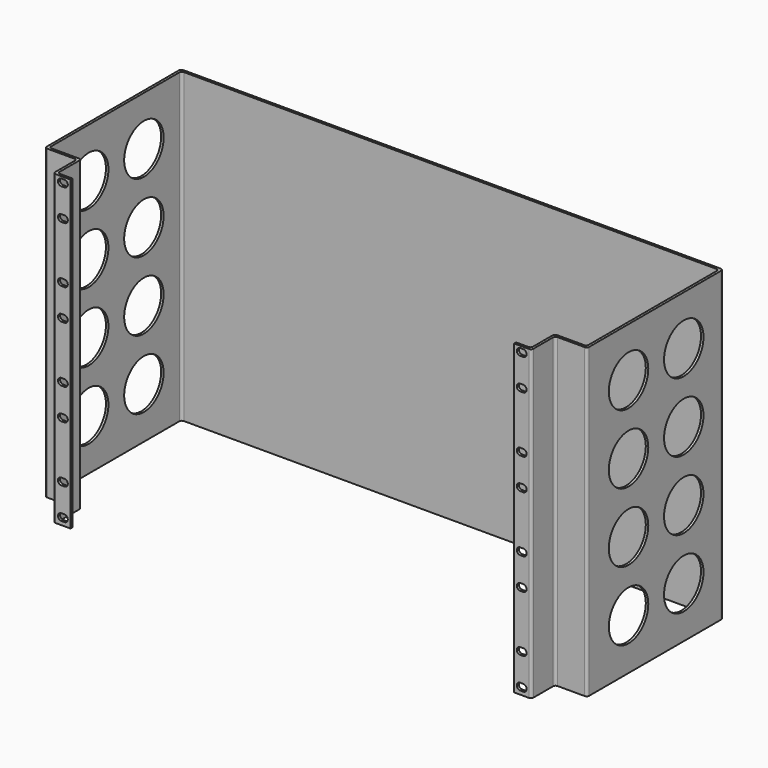
from build123d import *

# Parameters (mm, degrees)
F0_W      = 2.5
F0_H      = 311.5
F1_DEPTH  = 170
F0_W_2    = 272.5
F2_DEPTH  = 2.5
F3_W      = 2.5
F3_H      = 311.5
F4_DEPTH  = 32.5
F5_W      = 2.5
F5_H      = 311.5
F6_DEPTH  = 30
F7_W      = 2.5
F7_H      = 311.5
F8_DEPTH  = 15
F3_R      = 25
F9_DEPTH  = 25
F11_DEPTH = 25
F12_R     = 2.5


with BuildPart() as f1:
    # F0 (on Front) → F1 (new body)
    with BuildSketch(Plane.XZ):
        with Locations((-273.75, 0)):
            Rectangle(F0_W, F0_H)
    extrude(amount=F1_DEPTH)

    # F0 (on Front) → F2 (join)
    with BuildSketch(Plane.XZ):
        with Locations((-136.25, 0)):
            Rectangle(F0_W_2, F0_H)
        with Locations((-273.75, 0)):
            Rectangle(F0_W, F0_H)
    extrude(amount=-F2_DEPTH)

    # F3 (on face) → F4 (join)
    with BuildSketch(Plane.YZ.offset(-272.5)):
        with Locations((-168.75, 0)):
            Rectangle(F3_W, F3_H)
    extrude(amount=F4_DEPTH)

    # F5 (on face) → F6 (join)
    with BuildSketch(Plane.XZ.offset(170)):
        with Locations((-241.25, 0)):
            Rectangle(F5_W, F5_H)
    extrude(amount=F6_DEPTH)

    # F7 (on face) → F8 (join)
    with BuildSketch(Plane.YZ.offset(-240)):
        with Locations((-198.75, 0)):
            Rectangle(F7_W, F7_H)
    extrude(amount=F8_DEPTH)

    # F3 (on face) → F9 (cut)
    with BuildSketch(Plane.YZ.offset(-272.5)):
        with Locations((-117.5, 105.75)):
            Circle(F3_R)
        with Locations((-47.5, 105.75)):
            Circle(F3_R)
        with Locations((-117.5, 35.75)):
            Circle(F3_R)
        with Locations((-47.5, 35.75)):
            Circle(F3_R)
        with Locations((-117.5, -34.25)):
            Circle(F3_R)
        with Locations((-47.5, -34.25)):
            Circle(F3_R)
        with Locations((-47.5, -104.25)):
            Circle(F3_R)
        with Locations((-117.5, -104.25)):
            Circle(F3_R)
    extrude(amount=-F9_DEPTH, mode=Mode.SUBTRACT)

    # F10 (on face) → F11 (cut)
    with BuildSketch(Plane.XZ.offset(200)):
        with BuildLine():
            Line((-231.1658090081, 153.75), (-234.1658090081, 153.75))
            ThreePointArc((-234.1658090081, 153.75), (-237.6658090081, 150.25), (-234.1658090081, 146.75))
            Line((-234.1658090081, 146.75), (-231.1658090081, 146.75))
            ThreePointArc((-231.1658090081, 146.75), (-227.6658090081, 150.25), (-231.1658090081, 153.75))
        make_face()
        with BuildLine():
            Line((-231.1658090081, 121.95), (-234.1658090081, 121.95))
            ThreePointArc((-234.1658090081, 121.95), (-237.6658090081, 118.45), (-234.1658090081, 114.95))
            Line((-234.1658090081, 114.95), (-231.1658090081, 114.95))
            ThreePointArc((-231.1658090081, 114.95), (-227.6658090081, 118.45), (-231.1658090081, 121.95))
        make_face()
        with BuildLine():
            Line((-234.1658090081, 25.95), (-231.1658090081, 25.95))
            ThreePointArc((-231.1658090081, 25.95), (-227.6658090081, 29.45), (-231.1658090081, 32.95))
            Line((-231.1658090081, 32.95), (-234.1658090081, 32.95))
            ThreePointArc((-234.1658090081, 32.95), (-237.6658090081, 29.45), (-234.1658090081, 25.95))
        make_face()
        with BuildLine():
            Line((-234.1658090081, 57.75), (-231.1658090081, 57.75))
            ThreePointArc((-231.1658090081, 57.75), (-227.6658090081, 61.25), (-231.1658090081, 64.75))
            Line((-231.1658090081, 64.75), (-234.1658090081, 64.75))
            ThreePointArc((-234.1658090081, 64.75), (-237.6658090081, 61.25), (-234.1658090081, 57.75))
        make_face()
        with BuildLine():
            Line((-234.1658090081, -63.05), (-231.1658090081, -63.05))
            ThreePointArc((-231.1658090081, -63.05), (-227.6658090081, -59.55), (-231.1658090081, -56.05))
            Line((-231.1658090081, -56.05), (-234.1658090081, -56.05))
            ThreePointArc((-234.1658090081, -56.05), (-237.6658090081, -59.55), (-234.1658090081, -63.05))
        make_face()
        with BuildLine():
            Line((-234.1658090081, -31.25), (-231.1658090081, -31.25))
            ThreePointArc((-231.1658090081, -31.25), (-227.6658090081, -27.75), (-231.1658090081, -24.25))
            Line((-231.1658090081, -24.25), (-234.1658090081, -24.25))
            ThreePointArc((-234.1658090081, -24.25), (-237.6658090081, -27.75), (-234.1658090081, -31.25))
        make_face()
        with BuildLine():
            Line((-234.1658090081, -152.05), (-231.1658090081, -152.05))
            ThreePointArc((-231.1658090081, -152.05), (-227.6658090081, -148.55), (-231.1658090081, -145.05))
            Line((-231.1658090081, -145.05), (-234.1658090081, -145.05))
            ThreePointArc((-234.1658090081, -145.05), (-237.6658090081, -148.55), (-234.1658090081, -152.05))
        make_face()
        with BuildLine():
            Line((-234.1658090081, -120.25), (-231.1658090081, -120.25))
            ThreePointArc((-231.1658090081, -120.25), (-227.6658090081, -116.75), (-231.1658090081, -113.25))
            Line((-231.1658090081, -113.25), (-234.1658090081, -113.25))
            ThreePointArc((-234.1658090081, -113.25), (-237.6658090081, -116.75), (-234.1658090081, -120.25))
        make_face()
        with BuildLine():
            Line((-209.1658090081, 114.95), (-206.1658090081, 114.95))
            ThreePointArc((-206.1658090081, 114.95), (-202.6658090081, 118.45), (-206.1658090081, 121.95))
            Line((-206.1658090081, 121.95), (-209.1658090081, 121.95))
            ThreePointArc((-209.1658090081, 121.95), (-212.6658090081, 118.45), (-209.1658090081, 114.95))
        make_face()
        with BuildLine():
            Line((-209.1658090081, 146.75), (-206.1658090081, 146.75))
            ThreePointArc((-206.1658090081, 146.75), (-202.6658090081, 150.25), (-206.1658090081, 153.75))
            Line((-206.1658090081, 153.75), (-209.1658090081, 153.75))
            ThreePointArc((-209.1658090081, 153.75), (-212.6658090081, 150.25), (-209.1658090081, 146.75))
        make_face()
        with BuildLine():
            Line((-209.1658090081, 25.95), (-206.1658090081, 25.95))
            ThreePointArc((-206.1658090081, 25.95), (-202.6658090081, 29.45), (-206.1658090081, 32.95))
            Line((-206.1658090081, 32.95), (-209.1658090081, 32.95))
            ThreePointArc((-209.1658090081, 32.95), (-212.6658090081, 29.45), (-209.1658090081, 25.95))
        make_face()
        with BuildLine():
            Line((-209.1658090081, 57.75), (-206.1658090081, 57.75))
            ThreePointArc((-206.1658090081, 57.75), (-202.6658090081, 61.25), (-206.1658090081, 64.75))
            Line((-206.1658090081, 64.75), (-209.1658090081, 64.75))
            ThreePointArc((-209.1658090081, 64.75), (-212.6658090081, 61.25), (-209.1658090081, 57.75))
        make_face()
        with BuildLine():
            Line((-209.1658090081, -63.05), (-206.1658090081, -63.05))
            ThreePointArc((-206.1658090081, -63.05), (-202.6658090081, -59.55), (-206.1658090081, -56.05))
            Line((-206.1658090081, -56.05), (-209.1658090081, -56.05))
            ThreePointArc((-209.1658090081, -56.05), (-212.6658090081, -59.55), (-209.1658090081, -63.05))
        make_face()
        with BuildLine():
            Line((-209.1658090081, -31.25), (-206.1658090081, -31.25))
            ThreePointArc((-206.1658090081, -31.25), (-202.6658090081, -27.75), (-206.1658090081, -24.25))
            Line((-206.1658090081, -24.25), (-209.1658090081, -24.25))
            ThreePointArc((-209.1658090081, -24.25), (-212.6658090081, -27.75), (-209.1658090081, -31.25))
        make_face()
        with BuildLine():
            Line((-209.1658090081, -152.05), (-206.1658090081, -152.05))
            ThreePointArc((-206.1658090081, -152.05), (-202.6658090081, -148.55), (-206.1658090081, -145.05))
            Line((-206.1658090081, -145.05), (-209.1658090081, -145.05))
            ThreePointArc((-209.1658090081, -145.05), (-212.6658090081, -148.55), (-209.1658090081, -152.05))
        make_face()
        with BuildLine():
            Line((-209.1658090081, -120.25), (-206.1658090081, -120.25))
            ThreePointArc((-206.1658090081, -120.25), (-202.6658090081, -116.75), (-206.1658090081, -113.25))
            Line((-206.1658090081, -113.25), (-209.1658090081, -113.25))
            ThreePointArc((-209.1658090081, -113.25), (-212.6658090081, -116.75), (-209.1658090081, -120.25))
        make_face()
        with BuildLine():
            Line((-184.1658090081, 114.95), (-181.1658090081, 114.95))
            ThreePointArc((-181.1658090081, 114.95), (-177.6658090081, 118.45), (-181.1658090081, 121.95))
            Line((-181.1658090081, 121.95), (-184.1658090081, 121.95))
            ThreePointArc((-184.1658090081, 121.95), (-187.6658090081, 118.45), (-184.1658090081, 114.95))
        make_face()
        with BuildLine():
            Line((-184.1658090081, 146.75), (-181.1658090081, 146.75))
            ThreePointArc((-181.1658090081, 146.75), (-177.6658090081, 150.25), (-181.1658090081, 153.75))
            Line((-181.1658090081, 153.75), (-184.1658090081, 153.75))
            ThreePointArc((-184.1658090081, 153.75), (-187.6658090081, 150.25), (-184.1658090081, 146.75))
        make_face()
        with BuildLine():
            Line((-184.1658090081, 25.95), (-181.1658090081, 25.95))
            ThreePointArc((-181.1658090081, 25.95), (-177.6658090081, 29.45), (-181.1658090081, 32.95))
            Line((-181.1658090081, 32.95), (-184.1658090081, 32.95))
            ThreePointArc((-184.1658090081, 32.95), (-187.6658090081, 29.45), (-184.1658090081, 25.95))
        make_face()
        with BuildLine():
            Line((-184.1658090081, 57.75), (-181.1658090081, 57.75))
            ThreePointArc((-181.1658090081, 57.75), (-177.6658090081, 61.25), (-181.1658090081, 64.75))
            Line((-181.1658090081, 64.75), (-184.1658090081, 64.75))
            ThreePointArc((-184.1658090081, 64.75), (-187.6658090081, 61.25), (-184.1658090081, 57.75))
        make_face()
        with BuildLine():
            Line((-184.1658090081, -63.05), (-181.1658090081, -63.05))
            ThreePointArc((-181.1658090081, -63.05), (-177.6658090081, -59.55), (-181.1658090081, -56.05))
            Line((-181.1658090081, -56.05), (-184.1658090081, -56.05))
            ThreePointArc((-184.1658090081, -56.05), (-187.6658090081, -59.55), (-184.1658090081, -63.05))
        make_face()
        with BuildLine():
            Line((-184.1658090081, -31.25), (-181.1658090081, -31.25))
            ThreePointArc((-181.1658090081, -31.25), (-177.6658090081, -27.75), (-181.1658090081, -24.25))
            Line((-181.1658090081, -24.25), (-184.1658090081, -24.25))
            ThreePointArc((-184.1658090081, -24.25), (-187.6658090081, -27.75), (-184.1658090081, -31.25))
        make_face()
        with BuildLine():
            Line((-184.1658090081, -152.05), (-181.1658090081, -152.05))
            ThreePointArc((-181.1658090081, -152.05), (-177.6658090081, -148.55), (-181.1658090081, -145.05))
            Line((-181.1658090081, -145.05), (-184.1658090081, -145.05))
            ThreePointArc((-184.1658090081, -145.05), (-187.6658090081, -148.55), (-184.1658090081, -152.05))
        make_face()
        with BuildLine():
            Line((-184.1658090081, -120.25), (-181.1658090081, -120.25))
            ThreePointArc((-181.1658090081, -120.25), (-177.6658090081, -116.75), (-181.1658090081, -113.25))
            Line((-181.1658090081, -113.25), (-184.1658090081, -113.25))
            ThreePointArc((-184.1658090081, -113.25), (-187.6658090081, -116.75), (-184.1658090081, -120.25))
        make_face()
    extrude(amount=-F11_DEPTH, mode=Mode.SUBTRACT)

    # F12
    f12_edges = [f1.edges().sort_by_distance(p)[0] for p in [
        (-242.5, -200, 0),
        (-242.5, -170, 0),
        (-275, -170, 0),
        (-240, -167.5, 0),
        (-272.5, -167.5, 0),
        (-240, -197.5, 0),
        (-275, 2.5, 0),
        (-272.5, 0, 0),
    ]]
    fillet(f12_edges, radius=F12_R)

    # F13: F1 across face


with BuildPart() as f1_1:
    add(f1.part)
    add(f1.part.mirror(Plane(origin=(0, 1.25, 0), x_dir=(0, 1, 0), z_dir=(1, 0, 0))))


solid = f1_1.part
